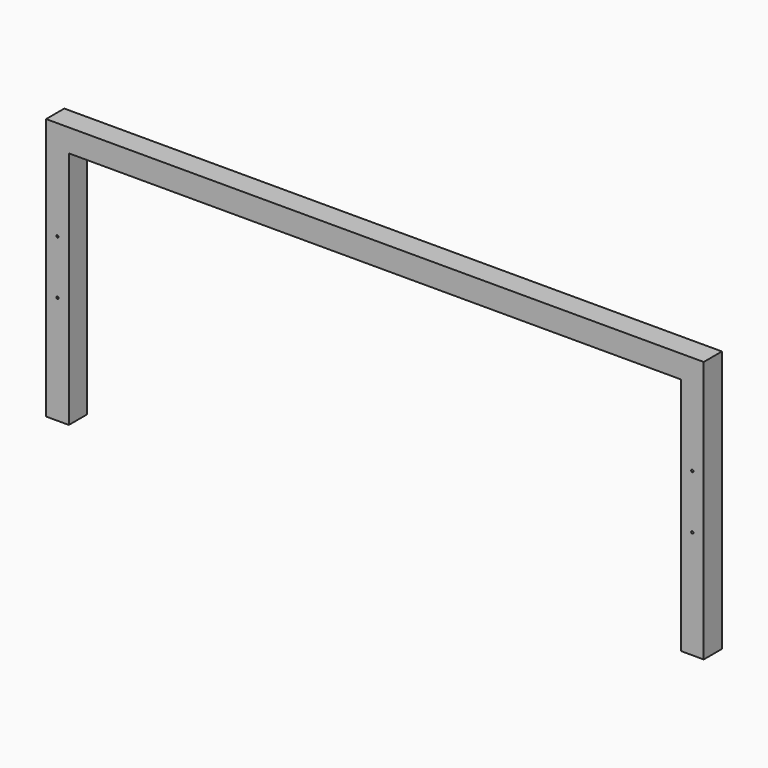
from build123d import *

# Parameters (mm, degrees)
F1_DEPTH      = 25.4
F1_DEPTH_BACK = 25.4
F3_D          = 5.1054


with BuildPart() as f1:
    # F0 (on Front) → F1 (new body, two sides)
    with BuildSketch(Plane.XZ) as f1_sk:
        Polygon((733.425, 292.1), (-733.425, 292.1), (-733.425, -292.1), (-682.625, -292.1), (-682.625, 241.3), (682.625, 241.3), (682.625, -292.1), (733.425, -292.1), align=None)
    extrude(amount=F1_DEPTH)
    extrude(f1_sk.sketch, amount=-F1_DEPTH_BACK)

    # F3 (through all)
    with Locations(Plane.XZ.offset(25.4)):
        with Locations((-708.025, -50.8), (708.025, -50.8), (708.025, 69.85), (-708.025, 69.85)):
            Hole(F3_D / 2)


solid = f1.part
